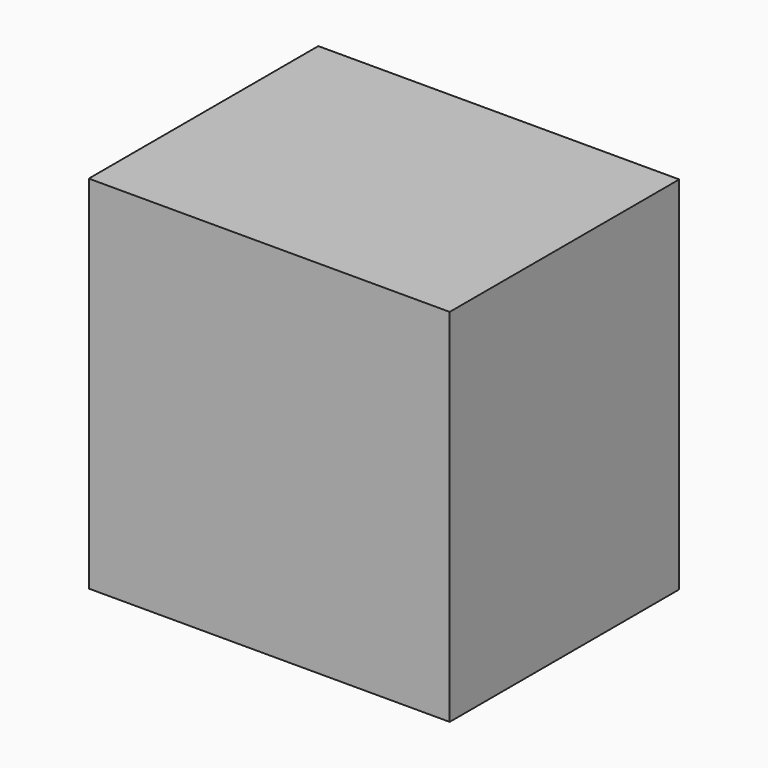
from build123d import *

# Parameters (mm, degrees)
CYLINDER013_R     = 11
CYLINDER013_DEPTH = 2
CYLINDER014_R     = 2.5
CYLINDER014_DEPTH = 14
CYLINDER015_R     = 1.5
CYLINDER015_DEPTH = 10
CYLINDER011_R     = 1.5
CYLINDER011_DEPTH = 10
CYLINDER012_R     = 1.5
CYLINDER012_DEPTH = 10
CYLINDER016_R     = 1.5
CYLINDER016_DEPTH = 10
BOX002_W          = 39
BOX002_H          = 31
BOX002_DEPTH      = 39


with BuildPart() as cylinder013:
    # Cylinder013 → Cylinder013 (new body)
    with BuildSketch(Plane(origin=(19.5, 33, 19.5), x_dir=(1, 0, 0), z_dir=(0, -1, 0))):
        Circle(CYLINDER013_R)
    extrude(amount=CYLINDER013_DEPTH)


with BuildPart() as cylinder014:
    # Cylinder014 → Cylinder014 (new body)
    with BuildSketch(Plane(origin=(19.5, 33, 19.5), x_dir=(1, 0, 0), z_dir=(0, 1, 0))):
        Circle(CYLINDER014_R)
    extrude(amount=CYLINDER014_DEPTH)


with BuildPart() as cylinder015:
    # Cylinder015 → Cylinder015 (new body)
    with BuildSketch(Plane(origin=(35, 23, 35), x_dir=(1, 0, 0), z_dir=(0, 1, 0))):
        Circle(CYLINDER015_R)
    extrude(amount=CYLINDER015_DEPTH)


with BuildPart() as cylinder011:
    # Cylinder011 → Cylinder011 (new body)
    with BuildSketch(Plane(origin=(35, 23, 4), x_dir=(1, 0, 0), z_dir=(0, 1, 0))):
        Circle(CYLINDER011_R)
    extrude(amount=CYLINDER011_DEPTH)


with BuildPart() as cylinder012:
    # Cylinder012 → Cylinder012 (new body)
    with BuildSketch(Plane(origin=(4, 23, 4), x_dir=(1, 0, 0), z_dir=(0, 1, 0))):
        Circle(CYLINDER012_R)
    extrude(amount=CYLINDER012_DEPTH)


with BuildPart() as cylinder016:
    # Cylinder016 → Cylinder016 (new body)
    with BuildSketch(Plane(origin=(4, 23, 35), x_dir=(1, 0, 0), z_dir=(0, 1, 0))):
        Circle(CYLINDER016_R)
    extrude(amount=CYLINDER016_DEPTH)


with BuildPart() as fusion001:
    # Box002 → Box002 (new body)
    with BuildSketch(Plane.XY):
        with Locations((19.5, 15.5)):
            Rectangle(BOX002_W, BOX002_H)
    extrude(amount=BOX002_DEPTH)

    # Cut005: cut Cylinder016
    add(cylinder016.part, mode=Mode.SUBTRACT)

    # Cut006: cut Cylinder012
    add(cylinder012.part, mode=Mode.SUBTRACT)

    # Cut007: cut Cylinder011
    add(cylinder011.part, mode=Mode.SUBTRACT)

    # Cut008: cut Cylinder015
    add(cylinder015.part, mode=Mode.SUBTRACT)

    # Fusion001: union Cylinder013, Cylinder014
    add(cylinder013.part)
    add(cylinder014.part)


with BuildPart() as fusion001_1:
    # Fusion001 placement: moved
    add(fusion001.part.moved(Location((-40, 1, 15))))


solid = fusion001_1.part
